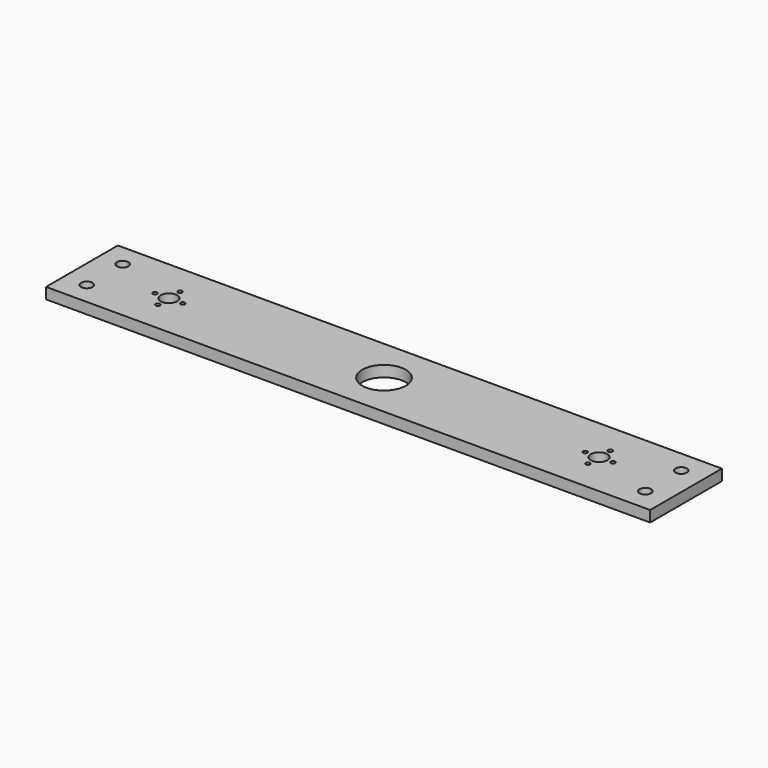
from build123d import *

# Parameters (mm, degrees)
F0_W     = 347.3
F0_H     = 51.58
F0_R     = 4.7625
F0_R_2   = 12.5
F1_DEPTH = 6.35
F3_D     = 6.6
F5_D     = 2.5


with BuildPart() as f1:
    # F0 (on Top) → F1 (new body)
    with BuildSketch(Plane.XY):
        Rectangle(F0_W, F0_H)
        with Locations((-123.65, 0)):
            Circle(F0_R, mode=Mode.SUBTRACT)
        Circle(F0_R_2, mode=Mode.SUBTRACT)
        with Locations((123.65, 0)):
            Circle(F0_R, mode=Mode.SUBTRACT)
    extrude(amount=F1_DEPTH)

    # F3 (through all)
    with Locations(Plane(origin=(0, 0, 0), x_dir=(1, 0, 0), z_dir=(0, 0, -1))):
        with Locations((-160.553125, 12.895), (-160.553125, -12.895), (160.553125, 12.895), (160.553125, -12.895)):
            Hole(F3_D / 2)

    # F5 (through all)
    with Locations(Plane.XY.offset(6.35)):
        with Locations((-123.65, 8), (-115.65, 0), (-123.65, -8), (-131.65, 0), (123.65, 8), (131.65, 0), (123.65, -8), (115.65, 0)):
            Hole(F5_D / 2)


solid = f1.part
